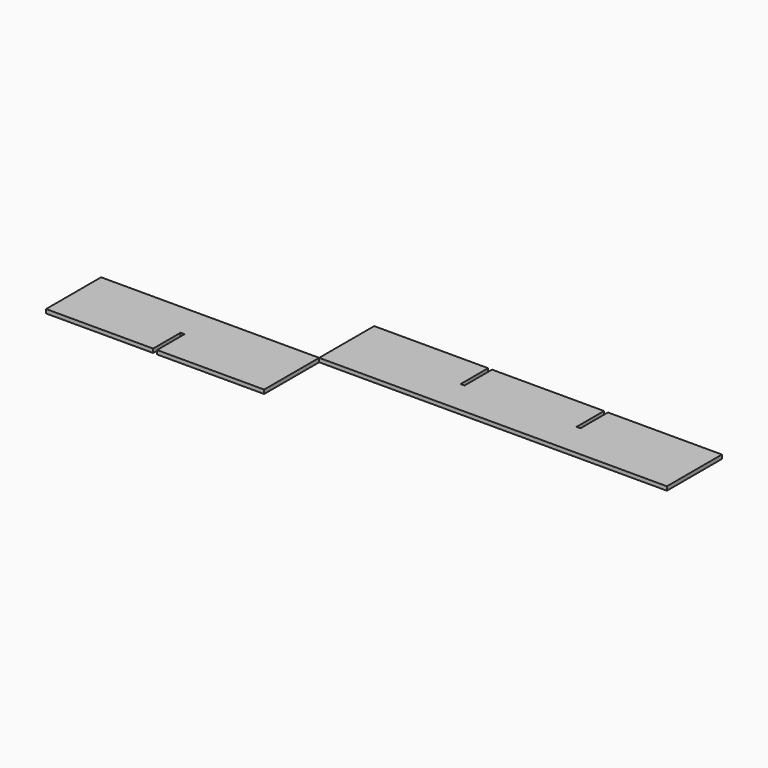
from build123d import *

# Parameters (mm, degrees)
F2_DEPTH = 2
F3_DEPTH = 2


with BuildPart() as f2:
    # F0 (on Top) → F2 (new body)
    with BuildSketch(Plane.XY):
        Polygon((0, 35), (0, 0), (177, 0), (177, 35), (119, 35), (119, 17.5), (117, 17.5), (117, 35), (60, 35), (60, 17.5), (58, 17.5), (58, 35), align=None)
    extrude(amount=F2_DEPTH)


with BuildPart() as f3:
    # F1 (on Top) → F3 (new body)
    with BuildSketch(Plane.XY):
        Polygon((0, -35), (0, 0), (-111, 0), (-111, -35), (-56.5, -35), (-56.5, -17.5), (-54.5, -17.5), (-54.5, -35), align=None)
    extrude(amount=F3_DEPTH)


solid = Compound([f2.part, f3.part])
